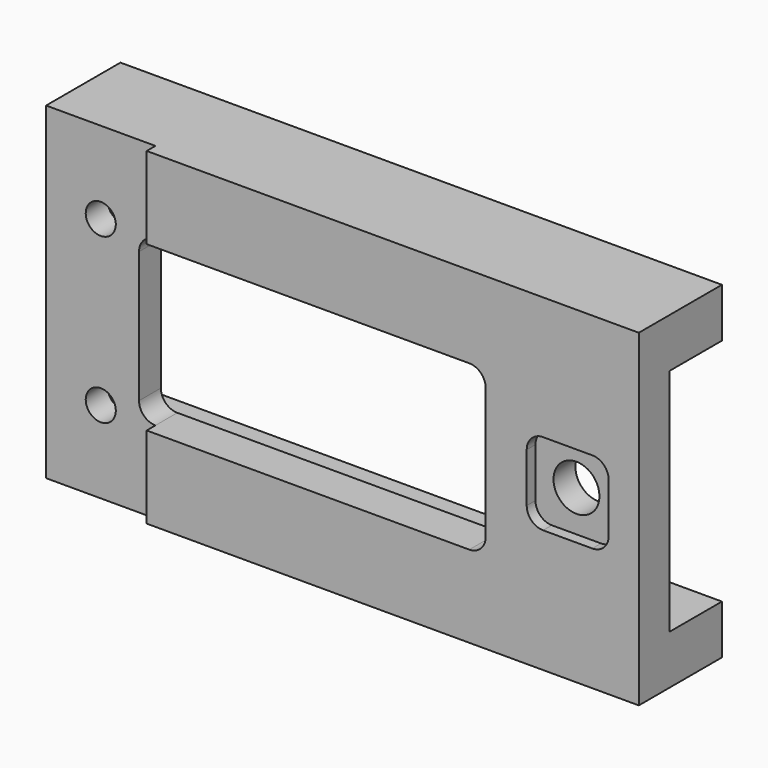
from build123d import *

# Parameters (mm, degrees)
F0_W     = 110
F0_H     = 60
F0_W_2   = 65
F0_H_2   = 30
F1_DEPTH = 19
F2_W     = 110
F2_H     = 42
F2_W_2   = 65
F2_H_2   = 30
F3_DEPTH = 12
F4_W     = 15
F4_H     = 15
F5_DEPTH = 2
F6_R     = 3
F8_D     = 5.5
F8_DEPTH = 50
F9_D     = 8.4
F9_DEPTH = 50


with BuildPart() as f1:
    # F0 (on Front) → F1 (new body)
    with BuildSketch(Plane.XZ):
        with Locations((55, 30)):
            Rectangle(F0_W, F0_H)
        with Locations((49.5, 30)):
            Rectangle(F0_W_2, F0_H_2, mode=Mode.SUBTRACT)
    extrude(amount=F1_DEPTH)

    # F2 (on face) → F3 (cut)
    with BuildSketch(Plane(origin=(0, 0, 0), x_dir=(-1, 0, 0), z_dir=(0, 1, 0))):
        with Locations((-55, 30)):
            Rectangle(F2_W, F2_H)
        with Locations((-49.5, 30)):
            Rectangle(F2_W_2, F2_H_2, mode=Mode.SUBTRACT)
    extrude(amount=-F3_DEPTH, mode=Mode.SUBTRACT)

    # F4 (on face) → F5 (cut)
    with BuildSketch(Plane.XZ.offset(19)):
        Polygon((20, 60), (0, 60), (0, 0), (20, 0), (20, 15), (17, 15), (17, 45), (20, 45), align=None)
        with Locations((97, 30)):
            Rectangle(F4_W, F4_H)
    extrude(amount=-F5_DEPTH, mode=Mode.SUBTRACT)

    # F6
    f6_edges = [f1.edges().sort_by_distance(p)[0] for p in [
        (17, -14.5, 45),
        (17, -14.5, 15),
        (82, -15.5, 45),
        (82, -15.5, 15),
        (89.5, -18, 37.5),
        (104.5, -18, 37.5),
        (104.5, -18, 22.5),
        (89.5, -18, 22.5),
    ]]
    fillet(f6_edges, radius=F6_R)

    # F8
    with Locations(Plane.XZ.offset(17)):
        with Locations((10, 45), (10, 15)):
            Hole(F8_D / 2, depth=F8_DEPTH)

    # F9
    with Locations(Plane.XZ.offset(17)):
        with Locations((97, 30)):
            Hole(F9_D / 2, depth=F9_DEPTH)


solid = f1.part
